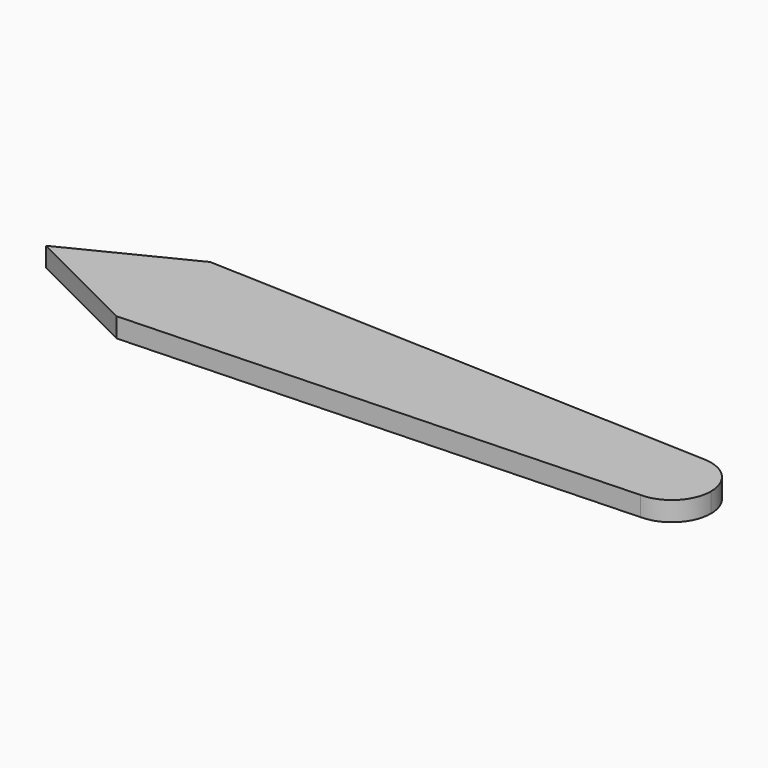
from build123d import *

# Parameters (mm, degrees)
F1_DEPTH = 1.5875


with BuildPart() as f1:
    # F0 (on Top) → F1 (new body)
    with BuildSketch(Plane.XY):
        with BuildLine():
            ThreePointArc((-3.175, 0), (-2.245064, 2.245064), (0, 3.175))
            Line((0, 3.175), (-41.275, 4.7625))
            Line((-41.275, 4.7625), (-50.8, 0))
            Line((-50.8, 0), (-3.175, 0))
        make_face()
        with BuildLine():
            ThreePointArc((0, -3.175), (2.245064, -2.245064), (3.175, 0))
            ThreePointArc((3.175, 0), (2.245064, 2.245064), (0, 3.175))
            ThreePointArc((0, 3.175), (-2.245064, 2.245064), (-3.175, 0))
            ThreePointArc((-3.175, 0), (-2.245064, -2.245064), (0, -3.175))
        make_face()
        with BuildLine():
            Line((-41.275, -4.7625), (0, -3.175))
            ThreePointArc((0, -3.175), (-2.245064, -2.245064), (-3.175, 0))
            Line((-3.175, 0), (-50.8, 0))
            Line((-50.8, 0), (-41.275, -4.7625))
        make_face()
    extrude(amount=F1_DEPTH)


with BuildPart() as f2_1:
    # F2: copy of F1
    add(f1.part)


solid = f1.part
